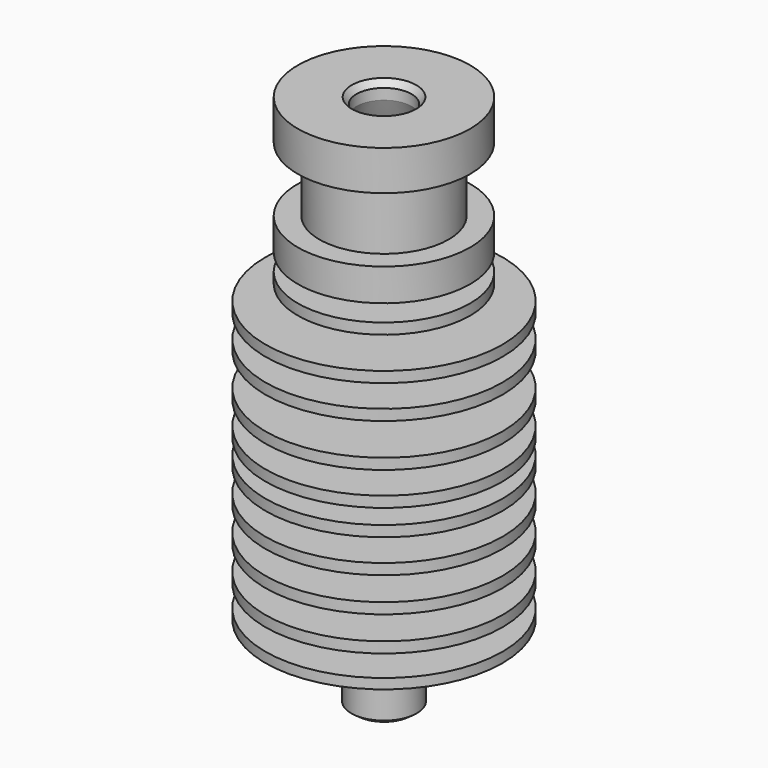
from build123d import *


with BuildPart() as f1:
    # F0 (on Front) → F1 (revolve)
    with BuildSketch(Plane.XZ):
        Polygon((8, 49.8), (3, 49.8), (2.555618, 49.211922), (2.555618, 48.211922), (3.537895, 45.965945), (3.537895, 41.892459), (2.05, 39.236551), (2.05, 7.1), (2.05, 0), (2.476728, 0), (3.047144, 0.404497), (3.047144, 4.667719), (2.476728, 5), (2.476728, 7.1), (11.011527, 7.1), (11.011527, 8.032141), (3, 8.032141), (3, 10.032141), (11.011527, 10.032141), (11.011527, 11.032141), (3, 11.032141), (3, 13.232141), (11.011527, 13.232141), (11.011527, 14.232141), (3, 14.232141), (3, 16.432141), (11.011527, 16.432141), (11.011527, 17.432141), (3, 17.432141), (3, 19.532141), (11, 19.532141), (11, 20.532141), (6.5, 20.532141), (6.5, 21.932141), (11, 21.932141), (11, 22.932141), (3, 22.932141), (3, 25.032141), (11, 25.032141), (11, 26.032141), (3, 26.032141), (3, 29.032141), (11, 29.032141), (11, 30.032141), (3, 30.032141), (3, 32.132141), (11, 32.132141), (11, 33.132141), (4.5, 33.132141), (4.5, 34.524906), (8, 34.524906), (8, 35.524906), (4.5, 35.524906), (4.5, 37.1), (8, 37.1), (8, 40.1), (6, 40.1), (6, 46.1), (8, 46.1), align=None)
    revolve(axis=Axis((0, 0, 18.136091), (0, 0, -1)))


solid = f1.part
